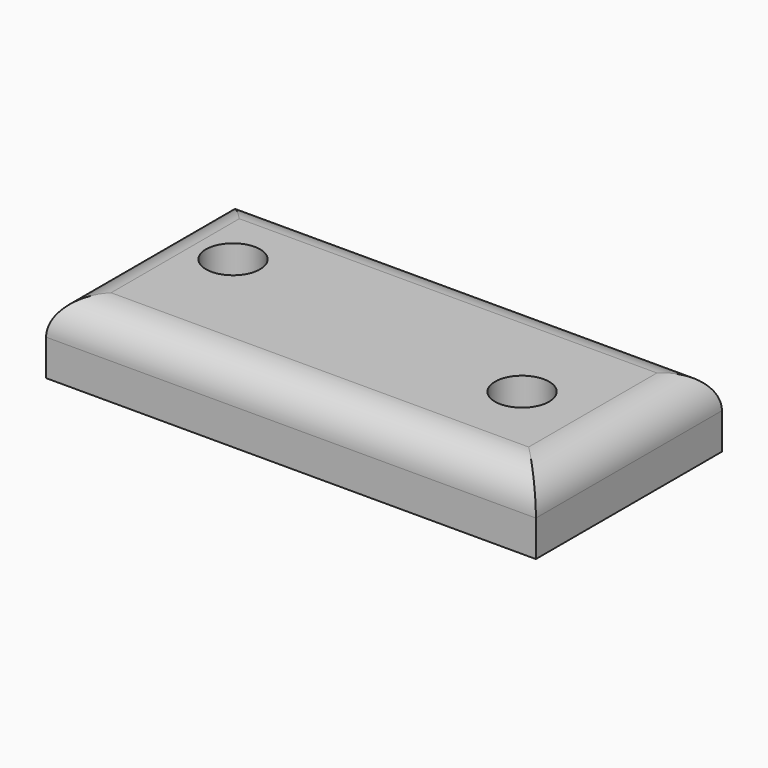
from build123d import *

# Parameters (mm, degrees)
F0_W     = 172.279298
F0_H     = 81.796013
F1_DEPTH = 25.4
F3_D     = 19.05
F4_R     = 12.7


with BuildPart() as f1:
    # F0 (on Top) → F1 (new body)
    with BuildSketch(Plane.XY):
        with Locations((0, 40.898007)):
            Rectangle(F0_W, F0_H)
    extrude(amount=F1_DEPTH)

    # F3 (through all)
    with Locations(Plane.XY.offset(25.4)):
        with Locations((51.449351, 37.283532), (-59.726231, 49.170807)):
            Hole(F3_D / 2)

    # F4
    f4_edges = [f1.edges().sort_by_distance(p)[0] for p in [
        (0, 81.796013, 25.4),
        (-86.139649, 40.898006, 25.4),
        (0, 0, 25.4),
        (86.139649, 40.898006, 25.4),
    ]]
    fillet(f4_edges, radius=F4_R)


solid = f1.part
